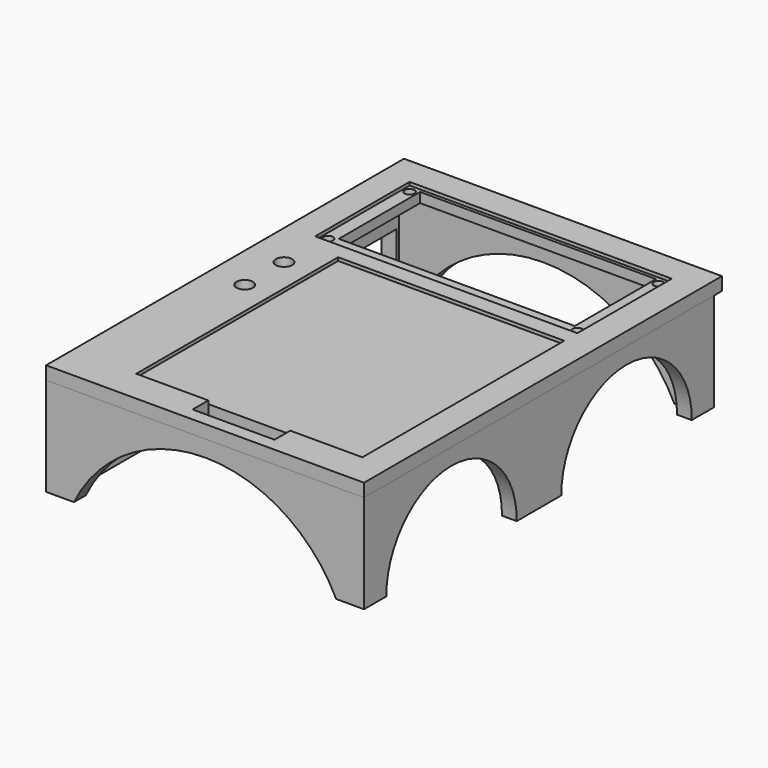
from build123d import *

# Parameters (mm, degrees)
F0_W          = 97
F0_H          = 136.5
F0_R          = 2.5
F0_W_2        = 80
F0_H_2        = 36
F1_DEPTH      = 4
F2_START      = -1
F0_R_2        = 1.5
F0_W_3        = 72
F0_H_3        = 31
F2_DEPTH      = 3
F4_START      = -4
F3_W          = 97
F3_H          = 133.5
F3_W_2        = 88
F3_H_2        = 124.5
F4_DEPTH      = 30
F5_W          = 36
F5_H          = 10
F5_R          = 6.25
F6_DEPTH      = 150
F8_DEPTH      = 171.9
F8_DEPTH_BACK = 25
F10_DEPTH     = 25


with BuildPart() as f1:
    # F0 (on Top) → F1 (new body)
    with BuildSketch(Plane.XY):
        with Locations((-40, 58.25)):
            Rectangle(F0_W, F0_H)
        with Locations((-77.5, 52)):
            Circle(F0_R, mode=Mode.SUBTRACT)
        Polygon((0, 77), (0, 0), (-22, 0), (-22, -6), (-47, -6), (-47, 0), (-69, 0), (-69, 77), align=None, mode=Mode.SUBTRACT)
        with Locations((-77.5, 67)):
            Circle(F0_R, mode=Mode.SUBTRACT)
        with Locations((-40, 100)):
            Rectangle(F0_W_2, F0_H_2, mode=Mode.SUBTRACT)
        with Locations((-40, 58.25)):
            Rectangle(F0_W, F0_H)
        with Locations((-77.5, 52)):
            Circle(F0_R, mode=Mode.SUBTRACT)
        Polygon((0, 77), (0, 0), (-22, 0), (-22, -6), (-47, -6), (-47, 0), (-69, 0), (-69, 77), align=None, mode=Mode.SUBTRACT)
        with Locations((-77.5, 67)):
            Circle(F0_R, mode=Mode.SUBTRACT)
        with Locations((-40, 100)):
            Rectangle(F0_W_2, F0_H_2, mode=Mode.SUBTRACT)
    extrude(amount=-F1_DEPTH)

    # F0 (on Top) → F2 (join)
    with BuildSketch(Plane.XY.offset(F2_START)):
        Polygon((-22, 0), (0, 0), (0, 77), (-69, 77), (-69, 0), (-47, 0), align=None)
        with Locations((-40, 100)):
            Rectangle(F0_W_2, F0_H_2)
        with Locations((-78, 84.5)):
            Circle(F0_R_2, mode=Mode.SUBTRACT)
        with Locations((-78, 115.5)):
            Circle(F0_R_2, mode=Mode.SUBTRACT)
        with Locations((-2, 84.5)):
            Circle(F0_R_2, mode=Mode.SUBTRACT)
        with Locations((-40, 101.5)):
            Rectangle(F0_W_3, F0_H_3, mode=Mode.SUBTRACT)
        with Locations((-2, 115.5)):
            Circle(F0_R_2, mode=Mode.SUBTRACT)
    extrude(amount=-F2_DEPTH)


with BuildPart() as f4:
    # F3 (on Top) → F4 (new body)
    with BuildSketch(Plane.XY.offset(F4_START)):
        with Locations((-40, 56.75)):
            Rectangle(F3_W, F3_H)
        with Locations((-40, 56.75)):
            Rectangle(F3_W_2, F3_H_2, mode=Mode.SUBTRACT)
    extrude(amount=-F4_DEPTH)

    # F5 (on Right) → F6 (cut)
    with BuildSketch(Plane.YZ):
        with Locations((60, -19)):
            Rectangle(F5_W, F5_H)
        with Locations((100, -19)):
            Rectangle(F5_W, F5_H)
        with Locations((31.75, -19)):
            Circle(F5_R)
    extrude(amount=-F6_DEPTH, mode=Mode.SUBTRACT)

    # F7 (on Front) → F8 (cut, two sides)
    with BuildSketch(Plane.XZ) as f8_sk:
        with BuildLine():
            Line((-80, -34), (0, -34))
            ThreePointArc((0, -34), (-40, -9), (-80, -34))
        make_face()
    extrude(amount=-F8_DEPTH, mode=Mode.SUBTRACT)
    extrude(f8_sk.sketch, amount=F8_DEPTH_BACK, mode=Mode.SUBTRACT)

    # F9 (on Right) → F10 (cut)
    with BuildSketch(Plane.YZ):
        with BuildLine():
            ThreePointArc((48.25, -34), (23.375, -9), (-1.5, -34))
            Line((-1.5, -34), (48.25, -34))
        make_face()
        with BuildLine():
            Line((65.25, -34), (115, -34))
            ThreePointArc((115, -34), (90.125, -9), (65.25, -34))
        make_face()
    extrude(amount=F10_DEPTH, mode=Mode.SUBTRACT)


solid = Compound([f1.part, f4.part])
